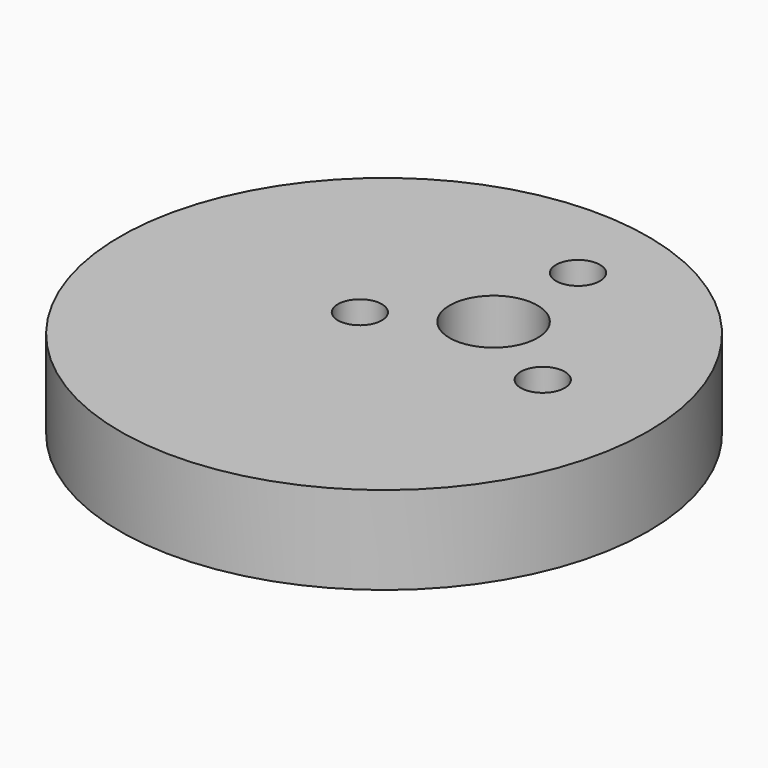
from build123d import *

# Parameters (mm, degrees)
F0_R     = 19.05
F0_R_2   = 1.5875
F1_DEPTH = 6.35
F3_D     = 6.35


with BuildPart() as f1:
    # F0 (on Top) → F1 (new body)
    with BuildSketch(Plane.XY):
        with Locations((-3.877292, -5.028827)):
            Circle(F0_R)
        with Locations((-6.599113, -3.81)):
            Circle(F0_R_2, mode=Mode.SUBTRACT)
        with Locations((6.599114, -3.809999)):
            Circle(F0_R_2, mode=Mode.SUBTRACT)
        with Locations((0, 7.62)):
            Circle(F0_R_2, mode=Mode.SUBTRACT)
    extrude(amount=F1_DEPTH)

    # F3 (through all)
    with Locations(Plane.XY.offset(6.35)):
        with Locations((0, 0)):
            Hole(F3_D / 2)


solid = f1.part
